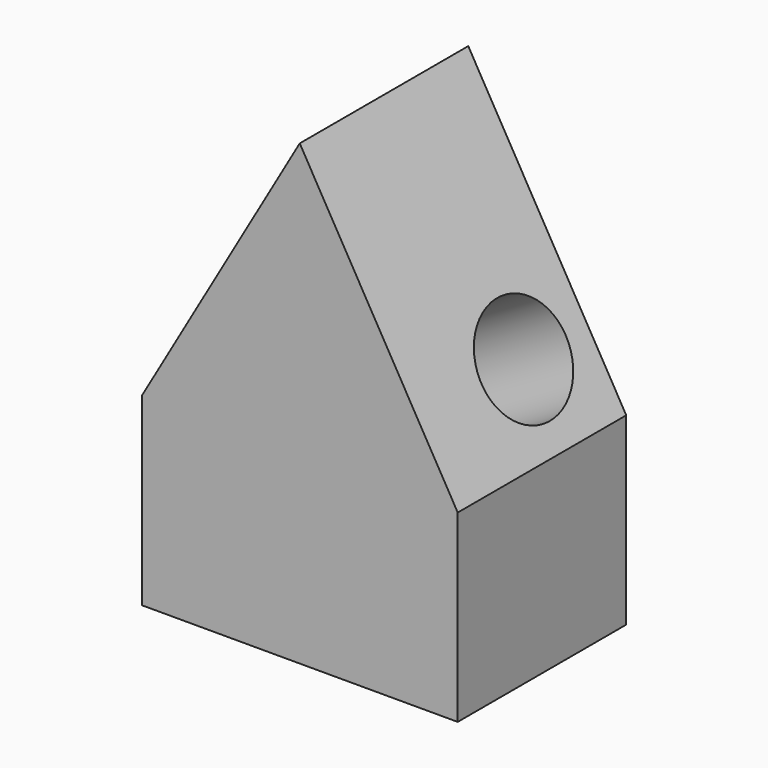
from build123d import *

# Parameters (mm, degrees)
F0_W     = 76.2
F0_H     = 44.45
F1_DEPTH = 50.8
F2_R     = 12.7
F3_DEPTH = 88.2171357684


with BuildPart() as f1:
    # F0 (on Front) → F1 (new body)
    with BuildSketch(Plane.XZ):
        with Locations((38.1, 22.225)):
            Rectangle(F0_W, F0_H)
        Polygon((38.1, 110.4411357684), (0, 44.45), (76.2, 44.45), align=None)
    extrude(amount=F1_DEPTH)

    # F2 (on face) → F3 (cut, through all)
    with BuildSketch(Plane(origin=(76.3974145991, 0, 44.1080678842), x_dir=(0, 1, 0), z_dir=(0.8660254038, 0, 0.5))):
        with Locations((-19.05, 19.4448291982)):
            Circle(F2_R)
    extrude(amount=-F3_DEPTH, mode=Mode.SUBTRACT)


solid = f1.part
